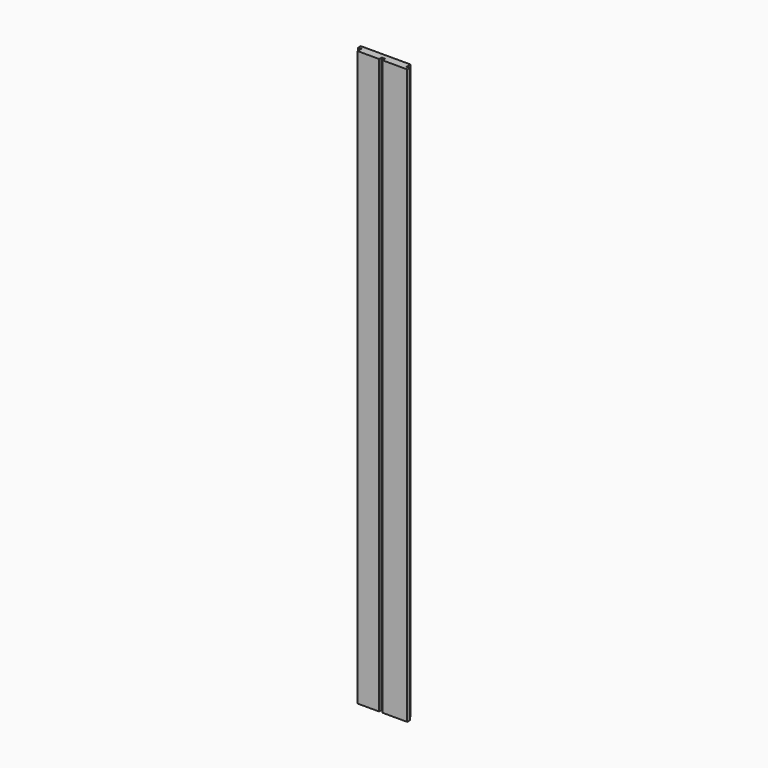
from build123d import *

# Parameters (mm, degrees)
F0_W     = 130
F0_H     = 1410
F1_DEPTH = 20
F2_W     = 8
F2_H     = 1410
F3_DEPTH = 8
F4_W     = 8
F4_H     = 1460
F5_DEPTH = 12
F6_W     = 8
F6_H     = 1410
F7_DEPTH = 12


with BuildPart() as f1:
    # F0 (on Front) → F1 (new body)
    with BuildSketch(Plane.XZ):
        with Locations((-309.722924, 439.476302)):
            Rectangle(F0_W, F0_H)
    extrude(amount=-F1_DEPTH)

    # F2 (on face) → F3 (cut)
    with BuildSketch(Plane.XZ):
        with Locations((-309.722924, 439.476302)):
            Rectangle(F2_W, F2_H)
    extrude(amount=-F3_DEPTH, mode=Mode.SUBTRACT)

    # F4 (on face) → F5 (cut)
    with BuildSketch(Plane.XZ):
        with Locations((-370.722924, 414.476302)):
            Rectangle(F4_W, F4_H)
    extrude(amount=-F5_DEPTH, mode=Mode.SUBTRACT)

    # F6 (on face) → F7 (cut)
    with BuildSketch(Plane(origin=(0, 20, 0), x_dir=(-1, 0, 0), z_dir=(0, 1, 0))):
        with Locations((248.722924, 439.476302)):
            Rectangle(F6_W, F6_H)
    extrude(amount=-F7_DEPTH, mode=Mode.SUBTRACT)


solid = f1.part
